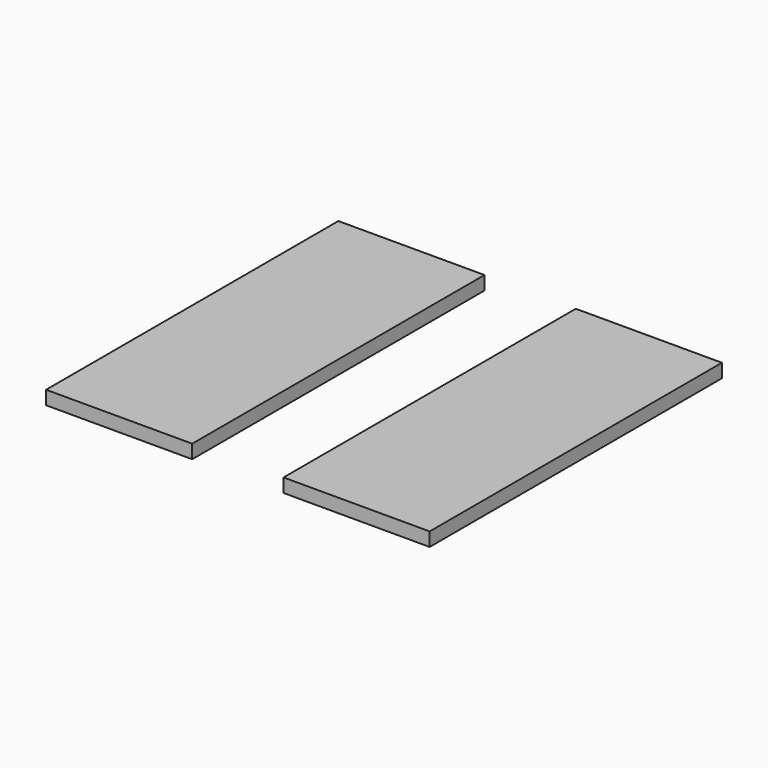
from build123d import *

# Parameters (mm, degrees)
F0_W     = 16
F0_H     = 40
F1_DEPTH = 1.5
F2_DEPTH = 1.5
F3_DEPTH = 1.5


with BuildPart() as f1:
    # F0 (on Top) → F1 (new body)
    with BuildSketch(Plane.XY):
        with Locations((-26, 0)):
            Rectangle(F0_W, F0_H)
    extrude(amount=F1_DEPTH)


with BuildPart() as f2:
    # F0 (on Top) → F2 (new body)
    with BuildSketch(Plane.XY):
        Rectangle(F0_W, F0_H)
    extrude(amount=F2_DEPTH)


with BuildPart() as f3:
    # F0 (on Top) → F3 (new body)
    with BuildSketch(Plane.XY):
        with Locations((26, 0)):
            Rectangle(F0_W, F0_H)
    extrude(amount=F3_DEPTH)


solid = Compound([f1.part, f2.part])
